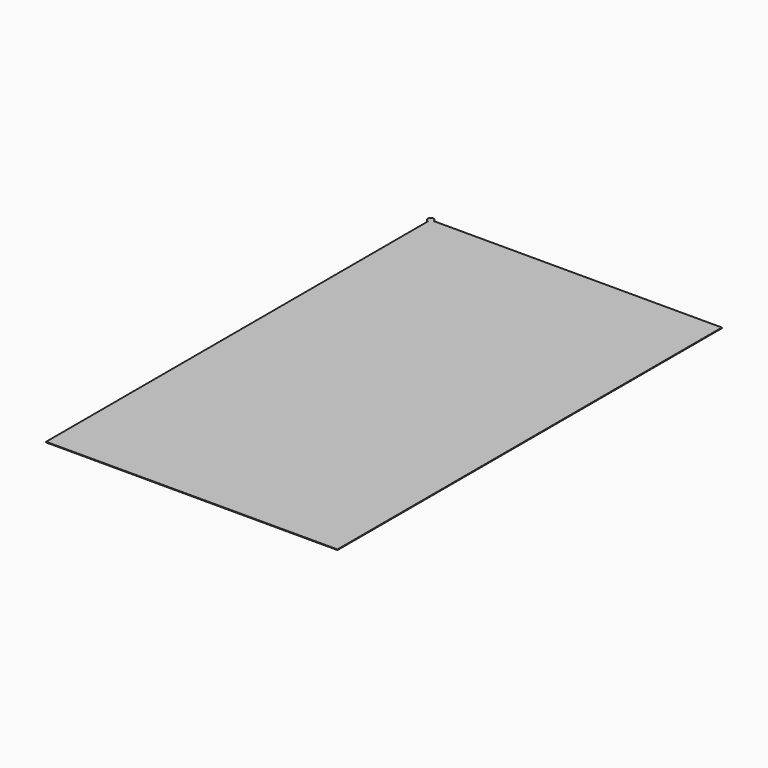
from build123d import *

# Parameters (mm, degrees)
CYLINDER_R     = 1
CYLINDER_DEPTH = 0.2
BOX005_W       = 94
BOX005_H       = 155
BOX005_DEPTH   = 0.2


with BuildPart() as cylinder:
    # Cylinder → Cylinder (new body)
    with BuildSketch(Plane(origin=(-18.28, 11.8, 14), x_dir=(1, 0, 0), z_dir=(0, 0, 1))):
        Circle(CYLINDER_R)
    extrude(amount=CYLINDER_DEPTH)


with BuildPart() as display_frame:
    # Box005 → Box005 (new body)
    with BuildSketch(Plane(origin=(-18.28, -143.3, 14), x_dir=(1, 0, 0), z_dir=(0, 0, 1))):
        with Locations((47, 77.5)):
            Rectangle(BOX005_W, BOX005_H)
    extrude(amount=BOX005_DEPTH)

    # Fusion: union Cylinder
    add(cylinder.part)


solid = display_frame.part
